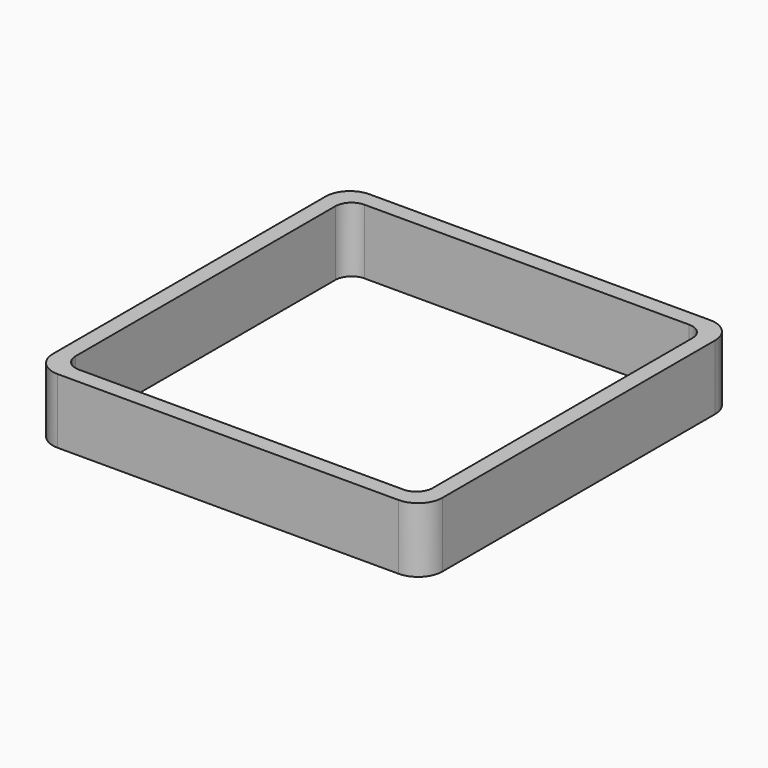
from build123d import *

# Parameters (mm, degrees)
EXTRUDE_DEPTH = 50


with BuildPart() as part:
    # Sketch → Extrude (new body)
    with BuildSketch(Plane.XY):
        with BuildLine():
            Line((-131.25, 150), (131.25, 150))
            ThreePointArc((150, 131.25), (144.508252, 144.508252), (131.25, 150))
            Line((150, 131.25), (150, -131.25))
            ThreePointArc((131.25, -150), (144.508252, -144.508252), (150, -131.25))
            Line((131.25, -150), (-131.25, -150))
            ThreePointArc((-150, -131.25), (-144.508252, -144.508252), (-131.25, -150))
            Line((-150, -131.25), (-150, 131.25))
            ThreePointArc((-131.25, 150), (-144.508252, 144.508252), (-150, 131.25))
        make_face()
        with BuildLine():
            Line((-125, 137.5), (125, 137.5))
            ThreePointArc((137.5, 125), (133.838835, 133.838835), (125, 137.5))
            Line((137.5, 125), (137.5, -125))
            ThreePointArc((125, -137.5), (133.838835, -133.838835), (137.5, -125))
            Line((125, -137.5), (-125, -137.5))
            ThreePointArc((-137.5, -125), (-133.838835, -133.838835), (-125, -137.5))
            Line((-137.5, -125), (-137.5, 125))
            ThreePointArc((-125, 137.5), (-133.838835, 133.838835), (-137.5, 125))
        make_face(mode=Mode.SUBTRACT)
    extrude(amount=EXTRUDE_DEPTH)


solid = part.part
